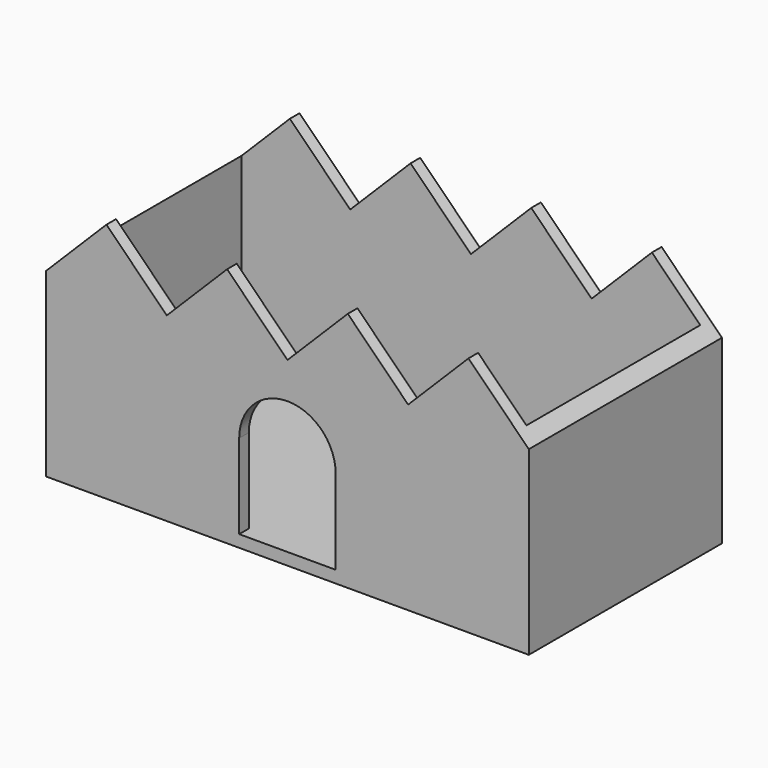
from build123d import *

# Parameters (mm, degrees)
F0_W     = 100
F0_H     = 50
F1_DEPTH = 50
F3_DEPTH = 50
F4_T     = -2.5
F6_DEPTH = 2.5


with BuildPart() as f1:
    # F0 (on Top) → F1 (new body)
    with BuildSketch(Plane.XY):
        Rectangle(F0_W, F0_H)
    extrude(amount=F1_DEPTH)

    # F2 (on face) → F3 (cut, through all)
    with BuildSketch(Plane.XZ.offset(25)):
        Polygon((-50, 50), (-50, 37.5), (-37.5, 50), align=None)
        Polygon((-12.5, 50), (-37.5, 50), (-25, 37.5), align=None)
        Polygon((12.5, 50), (-12.5, 50), (0, 37.5), align=None)
        Polygon((37.5, 50), (12.5, 50), (25, 37.5), align=None)
        Polygon((37.5, 50), (50, 37.5), (50, 50), align=None)
    extrude(amount=-F3_DEPTH, mode=Mode.SUBTRACT)

    # F4
    f4_openings = [f1.faces().sort_by_distance(p)[0] for p in [
        (-31.25, 0, 43.75),
        (-6.25, 0, 43.75),
        (18.75, 0, 43.75),
        (43.75, 0, 43.75),
        (31.25, 0, 43.75),
        (6.25, 0, 43.75),
        (-18.75, 0, 43.75),
        (-43.75, 0, 43.75),
    ]]
    offset(amount=F4_T, openings=f4_openings)

    # F5 (on face) → F6 (cut, through all)
    with BuildSketch(Plane.XZ.offset(25)):
        with BuildLine():
            ThreePointArc((-10, 20), (0, 10), (10, 20))
            Line((10, 20), (-10, 20))
        make_face()
        with BuildLine():
            Line((-10, 20), (10, 20))
            ThreePointArc((10, 20), (0, 30), (-10, 20))
        make_face()
        with BuildLine():
            Line((10, 2.5), (10, 20))
            ThreePointArc((10, 20), (0, 10), (-10, 20))
            Line((-10, 20), (-10, 2.5))
            Line((-10, 2.5), (10, 2.5))
        make_face()
    extrude(amount=-F6_DEPTH, mode=Mode.SUBTRACT)


solid = f1.part
